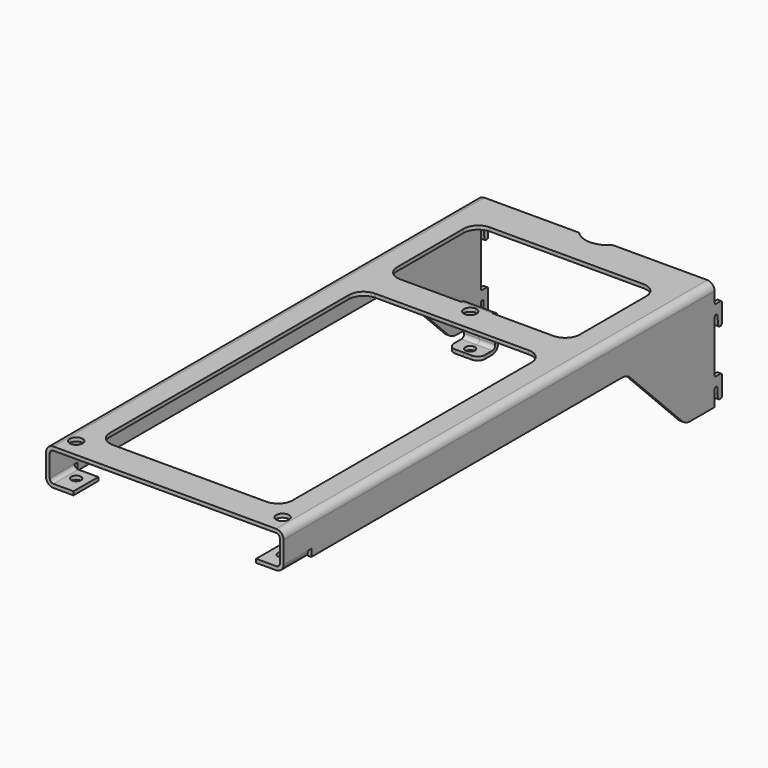
from build123d import *

# Parameters (mm, degrees)
SKETCH006_W  = 320
SKETCH006_H  = 150
PAD005_DEPTH = 70
SKETCH_R     = 3.5
SKETCH_W     = 100
SKETCH_H     = 179.5
PAD_DEPTH    = 2
FILLET_R     = 8
SKETCH001_W  = 17
SKETCH001_H  = 20
PAD001_DEPTH = 2
SKETCH002_W  = 17
SKETCH002_H  = 13
SKETCH002_R  = 2.6
PAD002_DEPTH = 2
FILLET001_R  = 4
FILLET002_R  = 4
FILLET003_R  = 2
PAD003_DEPTH = 2
FILLET004_R  = 1
FILLET005_R  = 1
SKETCH004_W  = 16.992554
SKETCH004_H  = 2
PAD004_DEPTH = 13
FILLET006_R  = 2
FILLET007_R  = 4
SKETCH005_R  = 2.660728
POCKET_DEPTH = 5


with BuildPart() as pad005:
    # Sketch006 → Pad005 (new body)
    with BuildSketch(Plane.YZ):
        with Locations((-150, -15)):
            Rectangle(SKETCH006_W, SKETCH006_H)
    extrude(amount=PAD005_DEPTH)


with BuildPart() as cut:
    # Sketch → Pad (new body)
    with BuildSketch(Plane.XY):
        with BuildLine():
            Line((-65, 0), (-65, -295))
            Line((-65, -295), (65, -295))
            Line((65, -295), (65, 0))
            Line((9.165151, 0), (65, 0))
            ThreePointArc((-9.165151, 0), (0, -4), (9.165151, 0))
            Line((-9.165151, 0), (-65, 0))
        make_face()
        with Locations((0, -86)):
            Circle(SKETCH_R, mode=Mode.SUBTRACT)
        with Locations((-56.5, -285)):
            Circle(SKETCH_R, mode=Mode.SUBTRACT)
        with Locations((56.5, -285)):
            Circle(SKETCH_R, mode=Mode.SUBTRACT)
        Polygon((-50, -20), (50, -20), (50, -81.5), (8.5, -81.5), (8.5, -77.5), (-8.5, -77.5), (-8.5, -81.5), (-50, -81.5), align=None, mode=Mode.SUBTRACT)
        with Locations((0, -188.25)):
            Rectangle(SKETCH_W, SKETCH_H, mode=Mode.SUBTRACT)
    extrude(amount=PAD_DEPTH)

    # Fillet
    fillet_edges = [cut.edges().sort_by_distance(p)[0] for p in [
        (-50, -20, 1),
        (-50, -98.5, 1),
        (50, -98.5, 1),
        (50, -20, 1),
        (-50, -81.5, 1),
        (50, -81.5, 1),
        (50, -278, 1),
        (-50, -278, 1),
    ]]
    fillet(fillet_edges, radius=FILLET_R)

    # Sketch001 → Pad001 (new body)
    with BuildSketch(Plane(origin=(0, -77.5, 0), x_dir=(-1, 0, 0), z_dir=(0, 1, 0))):
        with Locations((0, -8)):
            Rectangle(SKETCH001_W, SKETCH001_H)
    extrude(amount=-PAD001_DEPTH)

    # Sketch002 → Pad002 (new body)
    with BuildSketch(Plane(origin=(0, 0, -18), x_dir=(1, 0, 0), z_dir=(0, 0, -1))):
        with Locations((0, 84)):
            Rectangle(SKETCH002_W, SKETCH002_H)
        with Locations((0, 86)):
            Circle(SKETCH002_R, mode=Mode.SUBTRACT)
    extrude(amount=-PAD002_DEPTH)

    # Fillet001
    fillet001_edges = [cut.edges().sort_by_distance(p)[0] for p in [
        (8.5, -90.5, -17),
        (-8.5, -90.5, -17),
    ]]
    fillet(fillet001_edges, radius=FILLET001_R)

    # Fillet002
    fillet002_edges = [cut.edges().sort_by_distance(p)[0] for p in [
        (0, -77.5, -18),
        (0, -77.5, 2),
    ]]
    fillet(fillet002_edges, radius=FILLET002_R)

    # Fillet003
    fillet003_edges = [cut.edges().sort_by_distance(p)[0] for p in [
        (0, -79.5, 0),
        (0, -79.5, -16),
    ]]
    fillet(fillet003_edges, radius=FILLET003_R)

    # Sketch003 → Pad003 (new body)
    with BuildSketch(Plane(origin=(-65, 0, 0), x_dir=(0, -1, 0), z_dir=(-1, 0, 0))):
        with BuildLine():
            Line((0, 2), (295, 2))
            Line((295, 2), (295, -18))
            Line((278.007446, -18), (295, -18))
            Line((278.007446, -14), (278.007446, -18))
            Line((276.007446, -14), (278.007446, -14))
            Line((276.007446, -18), (276.007446, -14))
            Line((276.007446, -18), (63.317446, -18))
            ThreePointArc((63.317446, -18), (60.255963, -18.608958), (57.660562, -20.343146))
            Line((57.660562, -20.343146), (22.346854, -55.656854))
            ThreePointArc((16.69, -58), (19.751467, -57.391036), (22.346854, -55.656854))
            Line((0, -58), (16.69, -58))
            Line((0, -49.5), (0, -58))
            ThreePointArc((0, -49.5), (-1, -48.5), (-2, -49.5))
            Line((-2, -49.5), (-2, -52.5))
            Line((-2, -52.5), (-2.394957, -55.5))
            Line((-5, -55.5), (-2.394957, -55.5))
            Line((-5, -43.5), (-5, -55.5))
            Line((0, -43.5), (-5, -43.5))
            Line((0, -14.63), (0, -43.5))
            ThreePointArc((0, -14.63), (-0.869175, -13.701991), (-1.852044, -14.508611))
            Line((-1.852044, -14.508611), (-2.640825, -20.5))
            Line((-5, -20.5), (-2.640825, -20.5))
            Line((-5, -8.5), (-5, -20.5))
            Line((0, -8.5), (-5, -8.5))
            Line((0, 2), (0, -8.5))
        make_face()
    extrude(amount=-PAD003_DEPTH)

    # Fillet004
    fillet004_edges = [cut.edges().sort_by_distance(p)[0] for p in [
        (-64, 2.640825, -20.5),
        (-64, 5, -20.5),
        (-64, 5, -8.5),
        (-64, 0, -8.5),
    ]]
    fillet(fillet004_edges, radius=FILLET004_R)

    # Fillet005
    fillet005_edges = [cut.edges().sort_by_distance(p)[0] for p in [
        (-64, 0, -43.5),
        (-64, 5, -43.5),
        (-64, 5, -55.5),
        (-64, 2.394957, -55.5),
    ]]
    fillet(fillet005_edges, radius=FILLET005_R)

    # Sketch004 → Pad004 (new body)
    with BuildSketch(Plane.YZ.offset(-63)):
        with Locations((-286.503723, -17)):
            Rectangle(SKETCH004_W, SKETCH004_H)
    extrude(amount=PAD004_DEPTH)

    # Fillet006
    fillet006_edges = [cut.edges().sort_by_distance(p)[0] for p in [
        (-63, -286.503723, -16),
        (-63, -147.5, 0),
    ]]
    fillet(fillet006_edges, radius=FILLET006_R)

    # Fillet007
    fillet007_edges = [cut.edges().sort_by_distance(p)[0] for p in [
        (-65, -286.503723, -18),
        (-65, -147.5, 2),
    ]]
    fillet(fillet007_edges, radius=FILLET007_R)

    # Sketch005 → Pocket (cut)
    with BuildSketch(Plane(origin=(0, 0, -18), x_dir=(1, 0, 0), z_dir=(0, 0, -1))):
        with Locations((-56.5, 285)):
            Circle(SKETCH005_R)
    extrude(amount=-POCKET_DEPTH, mode=Mode.SUBTRACT)

    # Cut: cut Pad005
    add(pad005.part, mode=Mode.SUBTRACT)


with BuildPart() as part_mirroring:
    # Part__Mirroring: instance of Cut
    add(cut.part.mirror(Plane(origin=(0, 0, 0), x_dir=(0, -1, 0), z_dir=(1, 0, 0))))


with BuildPart() as fusion:
    # Fusion base: copy of Cut
    add(cut.part)

    # Fusion: union Part__Mirroring
    add(part_mirroring.part)


solid = fusion.part
